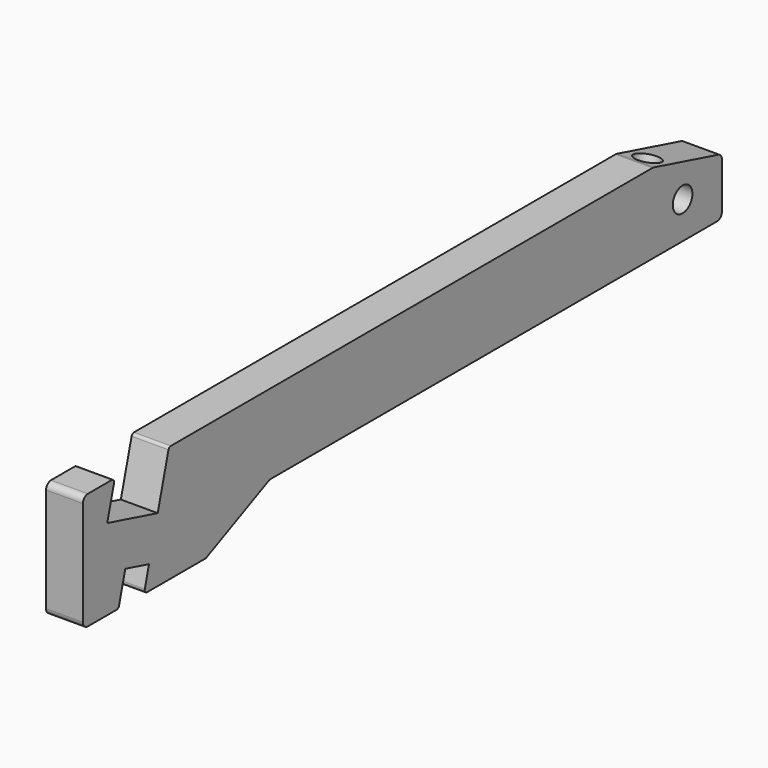
from build123d import *

# Parameters (mm, degrees)
F0_R     = 2
F1_DEPTH = 6
F2_R     = 2
F3_DEPTH = 10


with BuildPart() as f1:
    # F0 (on Right) → F1 (new body)
    with BuildSketch(Plane.YZ):
        with BuildLine():
            Line((-92, 0), (-1, 0))
            ThreePointArc((-1, 0), (-0.2928932188, 0.2928932188), (0, 1))
            Line((0, 1), (0, 8.481384318))
            ThreePointArc((0, 8.481384318), (-0.2066466597, 9.090145747), (-0.7411809549, 9.4473101443))
            Line((-0.7411809549, 9.4473101443), (-13.8728334525, 12.9659258263))
            ThreePointArc((-13.8728334525, 12.9659258263), (-14.0011263054, 12.9914448614), (-14.1316524976, 13))
            Line((-14.1316524976, 13), (-92, 13))
            Line((-92, 13), (-105, 13))
            Line((-105, 13), (-112.116336506, 13))
            ThreePointArc((-112.116336506, 13), (-112.4207172205, 12.8966766701), (-112.5992994192, 12.6294095226))
            Line((-112.5992994192, 12.6294095226), (-114.7900675851, 4.4533514196))
            Line((-114.7900675851, 4.4533514196), (-125.0572887611, 7.2044450423))
            Line((-125.0572887611, 7.2044450423), (-123.6730242638, 12.3705904774))
            ThreePointArc((-123.6730242638, 12.3705904774), (-123.7593105068, 12.8043807145), (-124.1559871769, 13))
            Line((-124.1559871769, 13), (-129, 13))
            ThreePointArc((-129, 13), (-129.7071067812, 12.7071067812), (-130, 12))
            Line((-130, 12), (-130, -5))
            ThreePointArc((-130, -5), (-129.7071067812, -5.7071067812), (-129, -6))
            Line((-129, -6), (-123.1510790522, -6))
            ThreePointArc((-123.1510790522, -6), (-122.8466983377, -5.8966766701), (-122.6681161391, -5.6294095226))
            Line((-122.6681161391, -5.6294095226), (-121.3853876072, -0.8422014693))
            Line((-121.3853876072, -0.8422014693), (-116.5557584758, -2.1362966948))
            Line((-116.5557584758, -2.1362966948), (-117.4223848829, -5.3705904774))
            ThreePointArc((-117.4223848829, -5.3705904774), (-117.3360986399, -5.8043807145), (-116.9394219698, -6))
            Line((-116.9394219698, -6), (-105, -6))
            Line((-105, -6), (-92, 0))
        make_face()
        with Locations((-8, 6)):
            Circle(F0_R, mode=Mode.SUBTRACT)
    extrude(amount=F1_DEPTH)

    # F2 (on face) → F3 (cut)
    with BuildSketch(Plane(origin=(0, 2.3121778265, 8.6291651246), x_dir=(1, 0, 0), z_dir=(0, 0.2588190451, 0.9659258263))):
        with Locations((3, -14.1951437903)):
            Circle(F2_R)
    extrude(amount=-F3_DEPTH, mode=Mode.SUBTRACT)


solid = f1.part
